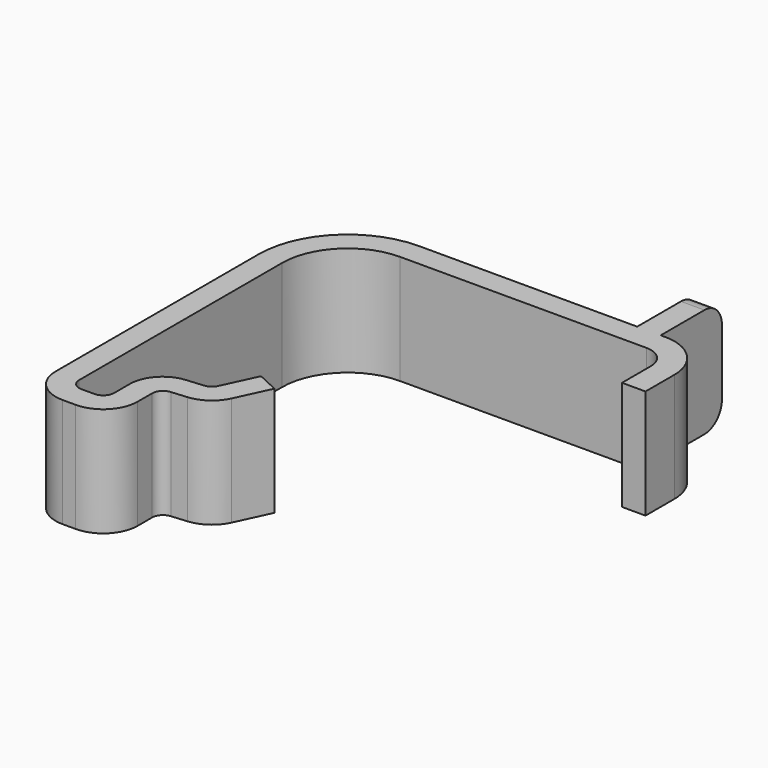
from build123d import *

# Parameters (mm, degrees)
F0_W     = 2.15
F0_H     = 7
F1_DEPTH = 10
F2_R     = 2


with BuildPart() as f1:
    # F0 (on Top) → F1 (new body)
    with BuildSketch(Plane.XY):
        with BuildLine():
            ThreePointArc((1, 0), (0.292893, 0.292893), (0, 1))
            Line((0, 1), (0, 24.2))
            ThreePointArc((0, 24.2), (1.757359, 28.442641), (6, 30.2))
            Line((6, 30.2), (28.54, 30.2))
            ThreePointArc((28.54, 30.2), (29.954214, 29.614214), (30.54, 28.2))
            Line((30.54, 28.2), (30.54, 24.89))
            Line((30.54, 24.89), (32.69, 24.89))
            Line((32.69, 24.89), (32.69, 28.2))
            ThreePointArc((32.69, 28.2), (31.474493, 31.134493), (28.54, 32.35))
            Line((28.54, 32.35), (28.112031, 32.35))
            Line((28.112031, 32.35), (25.962031, 32.35))
            Line((25.962031, 32.35), (6, 32.35))
            ThreePointArc((6, 32.35), (0.23708, 29.96292), (-2.15, 24.2))
            Line((-2.15, 24.2), (-2.15, 1))
            ThreePointArc((-2.15, 1), (-1.227386, -1.227386), (1, -2.15))
            Line((1, -2.15), (2.2, -2.15))
            ThreePointArc((2.2, -2.15), (4.427386, -1.227386), (5.35, 1))
            Line((5.35, 1), (5.35, 2.644499))
            ThreePointArc((5.35, 2.644499), (5.612723, 3.320089), (6.262844, 3.640693))
            Line((6.262844, 3.640693), (7.693586, 3.765867))
            ThreePointArc((7.693586, 3.765867), (9.225811, 4.323551), (10.273915, 5.572633))
            Line((10.273915, 5.572633), (11.720389, 8.674607))
            Line((11.720389, 8.674607), (9.771827, 9.583236))
            Line((9.771827, 9.583236), (8.325353, 6.481262))
            ThreePointArc((8.325353, 6.481262), (7.992621, 6.084728), (7.506201, 5.907685))
            Line((7.506201, 5.907685), (5.938533, 5.770532))
            ThreePointArc((5.938533, 5.770532), (3.988168, 4.808719), (3.2, 2.781948))
            Line((3.2, 2.781948), (3.2, 1))
            ThreePointArc((3.2, 1), (2.907107, 0.292893), (2.2, 0))
            Line((2.2, 0), (1, 0))
        make_face()
        with Locations((27.037031, 35.85)):
            Rectangle(F0_W, F0_H)
    extrude(amount=F1_DEPTH)

    # F2
    f2_edges = [f1.edges().sort_by_distance(p)[0] for p in [
        (27.037031, 39.35, 10),
        (27.037031, 39.35, 0),
    ]]
    fillet(f2_edges, radius=F2_R)


solid = f1.part
